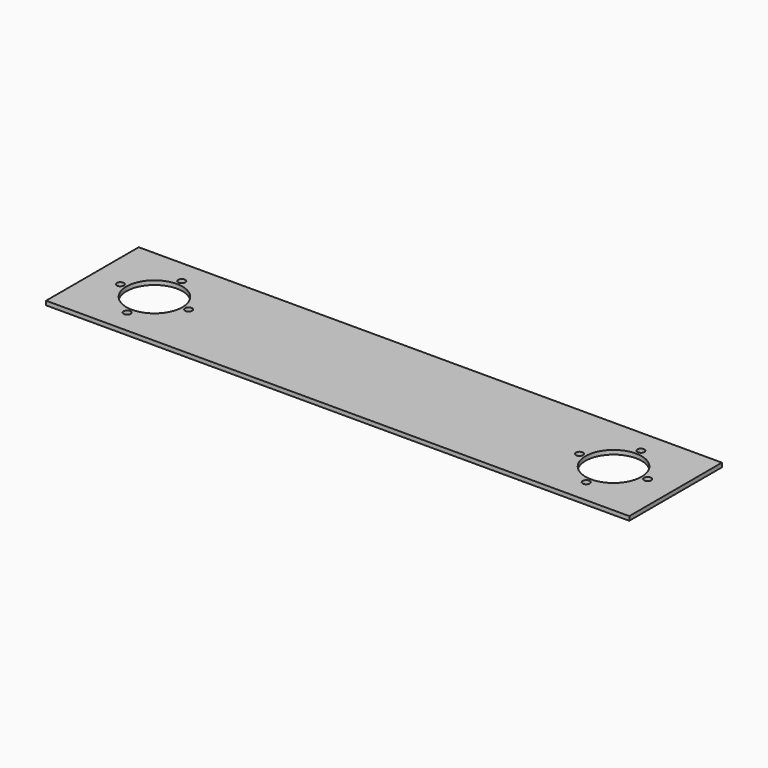
from build123d import *

# Parameters (mm, degrees)
F0_R     = 5.461
F0_R_2   = 42.9895
F1_DEPTH = 6.35


with BuildPart() as f1:
    # F0 (on Top) → F1 (new body)
    with BuildSketch(Plane.XY):
        Polygon((-95.25, 88.9), (-95.25, -88.9), (800.1, -88.9), (800.1, 88.9), (352.425, 88.9), align=None)
        with Locations((0, -52.3875)):
            Circle(F0_R, mode=Mode.SUBTRACT)
        with Locations((704.85, -52.3875)):
            Circle(F0_R, mode=Mode.SUBTRACT)
        with Locations((-52.3875, 0)):
            Circle(F0_R, mode=Mode.SUBTRACT)
        Circle(F0_R_2, mode=Mode.SUBTRACT)
        with Locations((52.3875, 0)):
            Circle(F0_R, mode=Mode.SUBTRACT)
        with Locations((0, 52.3875)):
            Circle(F0_R, mode=Mode.SUBTRACT)
        with Locations((652.4625, 0)):
            Circle(F0_R, mode=Mode.SUBTRACT)
        with Locations((704.85, 0)):
            Circle(F0_R_2, mode=Mode.SUBTRACT)
        with Locations((757.2375, 0)):
            Circle(F0_R, mode=Mode.SUBTRACT)
        with Locations((704.85, 52.3875)):
            Circle(F0_R, mode=Mode.SUBTRACT)
    extrude(amount=F1_DEPTH)


solid = f1.part
